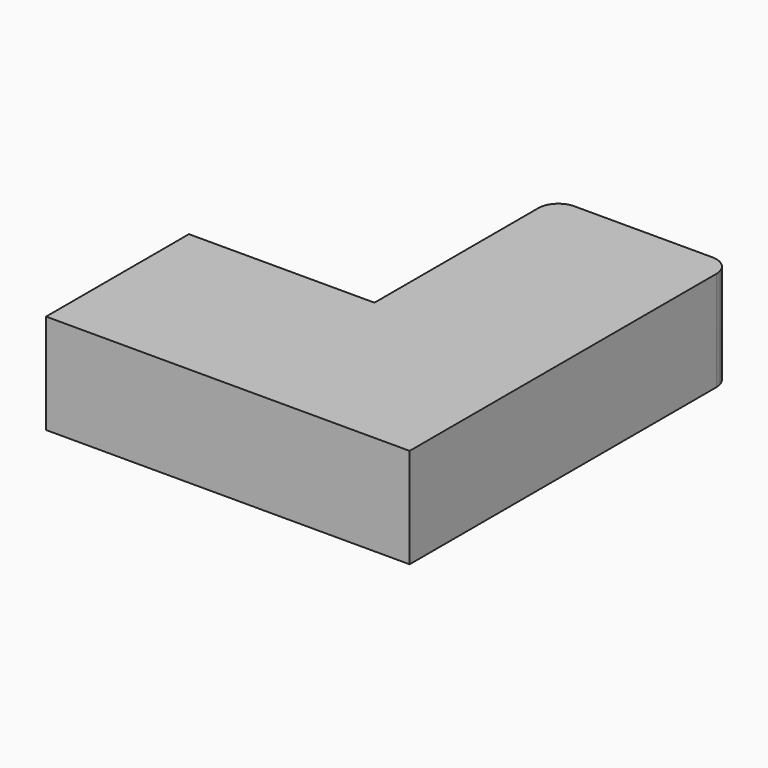
from build123d import *

# Parameters (mm, degrees)
F1_DEPTH = 12.7
F2_R     = 5.08


with BuildPart() as f1:
    # F0 (on Top) → F1 (new body, symmetric)
    with BuildSketch(Plane.XY):
        Polygon((0, 57.169542), (0, 0), (-47.185387, 0), (-47.185387, -45.407388), (45.270618, -45.407388), (45.270618, 57.169542), align=None)
    extrude(amount=F1_DEPTH, both=True)

    # F2
    f2_edges = [f1.edges().sort_by_distance(p)[0] for p in [
        (0, 57.169542, 0),
        (45.270618, 57.169542, 0),
    ]]
    fillet(f2_edges, radius=F2_R)


solid = f1.part
